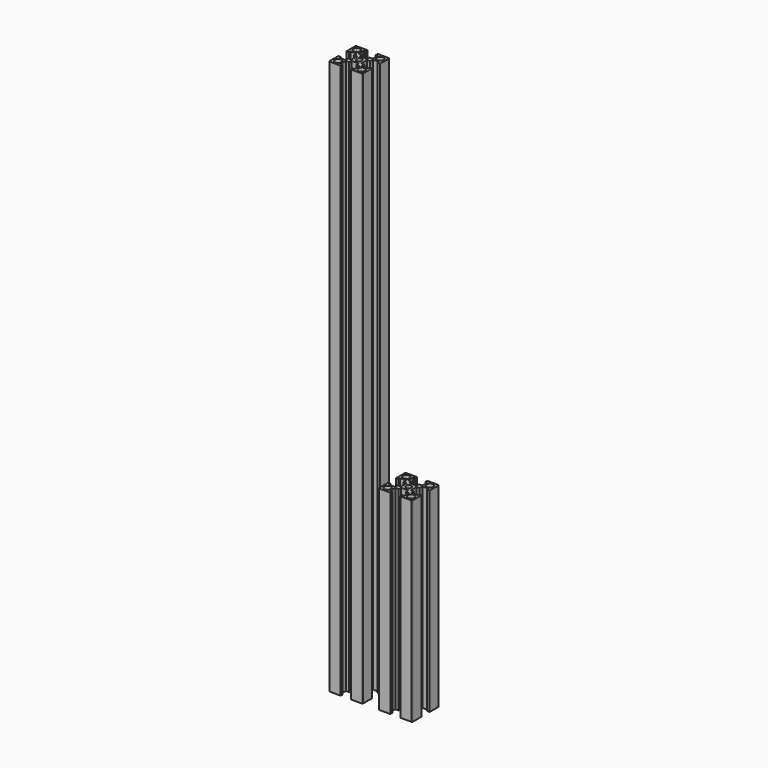
from build123d import *

# Parameters (mm, degrees)
F1_DEPTH = 330
F3_DEPTH = 116


with BuildPart() as f1:
    # F0 (on Top) → F1 (new body)
    with BuildSketch(Plane.XY):
        with BuildLine():
            Line((-2.980263, 9.980263), (-9.480263, 9.980263))
            ThreePointArc((-9.480263, 9.980263), (-9.671605, 9.942203), (-9.833817, 9.833817))
            Line((-9.833817, 9.833817), (-8.394477, 8.394477))
            ThreePointArc((-8.394477, 8.394477), (-6.214896, 8.828022), (-4.980263, 6.980263))
            ThreePointArc((-4.980263, 6.980263), (-5.132504, 6.214896), (-5.56605, 5.56605))
            Line((-5.56605, 5.56605), (-1.146989, 1.146989))
            ThreePointArc((-1.146989, 1.146989), (-0.611691, 1.504664), (0.019737, 1.630263))
            Line((0.019737, 1.630263), (0.019737, 2.980263))
            Line((0.019737, 2.980263), (-2.130263, 2.980263))
            Line((-2.130263, 2.980263), (-2.130263, 4.780263))
            Line((-2.130263, 4.780263), (-4.130263, 4.780263))
            Line((-4.130263, 4.780263), (-4.130263, 8.480263))
            Line((-4.130263, 8.480263), (-2.980263, 8.480263))
            Line((-2.980263, 8.480263), (-2.980263, 9.980263))
        make_face()
        with BuildLine():
            Line((0.019737, 2.980263), (0.019737, 1.630263))
            ThreePointArc((0.019737, 1.630263), (0.651165, 1.504664), (1.186463, 1.146989))
            Line((1.186463, 1.146989), (5.605523, 5.56605))
            ThreePointArc((5.605523, 5.56605), (5.605523, 8.394477), (8.43395, 8.394477))
            Line((8.43395, 8.394477), (9.87329, 9.833817))
            ThreePointArc((9.87329, 9.833817), (9.711079, 9.942203), (9.519737, 9.980263))
            Line((9.519737, 9.980263), (3.019737, 9.980263))
            Line((3.019737, 9.980263), (3.019737, 8.480263))
            Line((3.019737, 8.480263), (4.169737, 8.480263))
            Line((4.169737, 8.480263), (4.169737, 4.780263))
            Line((4.169737, 4.780263), (2.169737, 4.780263))
            Line((2.169737, 4.780263), (2.169737, 2.980263))
            Line((2.169737, 2.980263), (0.019737, 2.980263))
        make_face()
        with BuildLine():
            ThreePointArc((-1.146989, -1.186463), (-1.504664, -0.651165), (-1.630263, -0.019737))
            Line((-1.630263, -0.019737), (-2.980263, -0.019737))
            Line((-2.980263, -0.019737), (-2.980263, -2.169737))
            Line((-2.980263, -2.169737), (-4.780263, -2.169737))
            Line((-4.780263, -2.169737), (-4.780263, -4.169737))
            Line((-4.780263, -4.169737), (-8.480263, -4.169737))
            Line((-8.480263, -4.169737), (-8.480263, -3.019737))
            Line((-8.480263, -3.019737), (-9.980263, -3.019737))
            Line((-9.980263, -3.019737), (-9.980263, -9.519737))
            ThreePointArc((-9.980263, -9.519737), (-9.942203, -9.711079), (-9.833817, -9.87329))
            Line((-9.833817, -9.87329), (-8.394477, -8.43395))
            ThreePointArc((-8.394477, -8.43395), (-8.394477, -5.605523), (-5.56605, -5.605523))
            Line((-5.56605, -5.605523), (-1.146989, -1.186463))
        make_face()
        with BuildLine():
            ThreePointArc((1.669737, -0.019737), (1.544138, -0.651165), (1.186463, -1.186463))
            Line((1.186463, -1.186463), (5.605523, -5.605523))
            ThreePointArc((5.605523, -5.605523), (7.785104, -5.171978), (9.019737, -7.019737))
            ThreePointArc((9.019737, -7.019737), (8.867496, -7.785104), (8.43395, -8.43395))
            Line((8.43395, -8.43395), (9.87329, -9.87329))
            ThreePointArc((9.87329, -9.87329), (9.981677, -9.711079), (10.019737, -9.519737))
            Line((10.019737, -9.519737), (10.019737, -3.019737))
            Line((10.019737, -3.019737), (8.519737, -3.019737))
            Line((8.519737, -3.019737), (8.519737, -4.169737))
            Line((8.519737, -4.169737), (4.819737, -4.169737))
            Line((4.819737, -4.169737), (4.819737, -2.169737))
            Line((4.819737, -2.169737), (3.019737, -2.169737))
            Line((3.019737, -2.169737), (3.019737, -0.019737))
            Line((3.019737, -0.019737), (3.019737, 2.130263))
            Line((3.019737, 2.130263), (4.819737, 2.130263))
            Line((4.819737, 2.130263), (4.819737, 4.130263))
            Line((4.819737, 4.130263), (8.519737, 4.130263))
            Line((8.519737, 4.130263), (8.519737, 2.980263))
            Line((8.519737, 2.980263), (10.019737, 2.980263))
            Line((10.019737, 2.980263), (10.019737, 9.480263))
            ThreePointArc((10.019737, 9.480263), (9.981677, 9.671605), (9.87329, 9.833817))
            Line((9.87329, 9.833817), (8.43395, 8.394477))
            ThreePointArc((8.43395, 8.394477), (8.867496, 7.74563), (9.019737, 6.980263))
            ThreePointArc((9.019737, 6.980263), (7.785104, 5.132504), (5.605523, 5.56605))
            Line((5.605523, 5.56605), (1.186463, 1.146989))
            ThreePointArc((1.186463, 1.146989), (1.544138, 0.611691), (1.669737, -0.019737))
        make_face()
        with BuildLine():
            Line((-8.394477, 8.394477), (-9.833817, 9.833817))
            ThreePointArc((-9.833817, 9.833817), (-9.942203, 9.671605), (-9.980263, 9.480263))
            Line((-9.980263, 9.480263), (-9.980263, 2.980263))
            Line((-9.980263, 2.980263), (-8.480263, 2.980263))
            Line((-8.480263, 2.980263), (-8.480263, 4.130263))
            Line((-8.480263, 4.130263), (-4.780263, 4.130263))
            Line((-4.780263, 4.130263), (-4.780263, 2.130263))
            Line((-4.780263, 2.130263), (-2.980263, 2.130263))
            Line((-2.980263, 2.130263), (-2.980263, -0.019737))
            Line((-2.980263, -0.019737), (-1.630263, -0.019737))
            ThreePointArc((-1.630263, -0.019737), (-1.504664, 0.611691), (-1.146989, 1.146989))
            Line((-1.146989, 1.146989), (-5.56605, 5.56605))
            ThreePointArc((-5.56605, 5.56605), (-8.394477, 5.56605), (-8.394477, 8.394477))
        make_face()
        with BuildLine():
            ThreePointArc((1.186463, -1.186463), (0.019737, -1.669737), (-1.146989, -1.186463))
            Line((-1.146989, -1.186463), (-5.56605, -5.605523))
            ThreePointArc((-5.56605, -5.605523), (-5.132504, -6.25437), (-4.980263, -7.019737))
            ThreePointArc((-4.980263, -7.019737), (-6.214896, -8.867496), (-8.394477, -8.43395))
            Line((-8.394477, -8.43395), (-9.833817, -9.87329))
            ThreePointArc((-9.833817, -9.87329), (-9.671605, -9.981677), (-9.480263, -10.019737))
            Line((-9.480263, -10.019737), (-2.980263, -10.019737))
            Line((-2.980263, -10.019737), (-2.980263, -8.519737))
            Line((-2.980263, -8.519737), (-4.130263, -8.519737))
            Line((-4.130263, -8.519737), (-4.130263, -4.819737))
            Line((-4.130263, -4.819737), (-2.130263, -4.819737))
            Line((-2.130263, -4.819737), (-2.130263, -3.019737))
            Line((-2.130263, -3.019737), (0.019737, -3.019737))
            Line((0.019737, -3.019737), (2.169737, -3.019737))
            Line((2.169737, -3.019737), (2.169737, -4.819737))
            Line((2.169737, -4.819737), (4.169737, -4.819737))
            Line((4.169737, -4.819737), (4.169737, -8.519737))
            Line((4.169737, -8.519737), (3.019737, -8.519737))
            Line((3.019737, -8.519737), (3.019737, -10.019737))
            Line((3.019737, -10.019737), (9.519737, -10.019737))
            ThreePointArc((9.519737, -10.019737), (9.711079, -9.981677), (9.87329, -9.87329))
            Line((9.87329, -9.87329), (8.43395, -8.43395))
            ThreePointArc((8.43395, -8.43395), (5.605523, -8.43395), (5.605523, -5.605523))
            Line((5.605523, -5.605523), (1.186463, -1.186463))
        make_face()
    extrude(amount=F1_DEPTH)


with BuildPart() as f3:
    # F2 (on Top) → F3 (new body)
    with BuildSketch(Plane.XY):
        with BuildLine():
            ThreePointArc((30.686465, -1.186463), (29.519739, -1.669737), (28.353013, -1.186463))
            Line((28.353013, -1.186463), (23.933952, -5.605524))
            ThreePointArc((23.933952, -5.605524), (24.367498, -6.25437), (24.519739, -7.019737))
            ThreePointArc((24.519739, -7.019737), (23.285106, -8.867496), (21.105525, -8.433951))
            Line((21.105525, -8.433951), (19.666185, -9.873291))
            ThreePointArc((19.666185, -9.873291), (19.828397, -9.981677), (20.019739, -10.019737))
            Line((20.019739, -10.019737), (26.519739, -10.019737))
            Line((26.519739, -10.019737), (26.519739, -8.519737))
            Line((26.519739, -8.519737), (25.369739, -8.519737))
            Line((25.369739, -8.519737), (25.369739, -4.819737))
            Line((25.369739, -4.819737), (27.369739, -4.819737))
            Line((27.369739, -4.819737), (27.369739, -3.019737))
            Line((27.369739, -3.019737), (29.519739, -3.019737))
            Line((29.519739, -3.019737), (31.669739, -3.019737))
            Line((31.669739, -3.019737), (31.669739, -4.819737))
            Line((31.669739, -4.819737), (33.669739, -4.819737))
            Line((33.669739, -4.819737), (33.669739, -8.519737))
            Line((33.669739, -8.519737), (32.519739, -8.519737))
            Line((32.519739, -8.519737), (32.519739, -10.019737))
            Line((32.519739, -10.019737), (39.019739, -10.019737))
            ThreePointArc((39.019739, -10.019737), (39.211081, -9.981677), (39.373292, -9.873291))
            Line((39.373292, -9.873291), (37.933952, -8.433951))
            ThreePointArc((37.933952, -8.433951), (35.105525, -8.433951), (35.105525, -5.605524))
            Line((35.105525, -5.605524), (30.686465, -1.186463))
        make_face()
        with BuildLine():
            Line((21.105525, 8.394476), (19.666185, 9.833816))
            ThreePointArc((19.666185, 9.833816), (19.557799, 9.671604), (19.519739, 9.480263))
            Line((19.519739, 9.480263), (19.519739, 2.980263))
            Line((19.519739, 2.980263), (21.019739, 2.980263))
            Line((21.019739, 2.980263), (21.019739, 4.130263))
            Line((21.019739, 4.130263), (24.719739, 4.130263))
            Line((24.719739, 4.130263), (24.719739, 2.130263))
            Line((24.719739, 2.130263), (26.519739, 2.130263))
            Line((26.519739, 2.130263), (26.519739, -0.019737))
            Line((26.519739, -0.019737), (27.869739, -0.019737))
            ThreePointArc((27.869739, -0.019737), (27.995338, 0.61169), (28.353013, 1.146989))
            Line((28.353013, 1.146989), (23.933952, 5.566049))
            ThreePointArc((23.933952, 5.566049), (21.105525, 5.566049), (21.105525, 8.394476))
        make_face()
        with BuildLine():
            Line((26.519739, 9.980263), (20.019739, 9.980263))
            ThreePointArc((20.019739, 9.980263), (19.828397, 9.942202), (19.666185, 9.833816))
            Line((19.666185, 9.833816), (21.105525, 8.394476))
            ThreePointArc((21.105525, 8.394476), (23.285106, 8.828022), (24.519739, 6.980263))
            ThreePointArc((24.519739, 6.980263), (24.367498, 6.214896), (23.933952, 5.566049))
            Line((23.933952, 5.566049), (28.353013, 1.146989))
            ThreePointArc((28.353013, 1.146989), (28.888311, 1.504664), (29.519739, 1.630263))
            Line((29.519739, 1.630263), (29.519739, 2.980263))
            Line((29.519739, 2.980263), (27.369739, 2.980263))
            Line((27.369739, 2.980263), (27.369739, 4.780263))
            Line((27.369739, 4.780263), (25.369739, 4.780263))
            Line((25.369739, 4.780263), (25.369739, 8.480263))
            Line((25.369739, 8.480263), (26.519739, 8.480263))
            Line((26.519739, 8.480263), (26.519739, 9.980263))
        make_face()
        with BuildLine():
            ThreePointArc((31.169739, -0.019737), (31.04414, -0.651165), (30.686465, -1.186463))
            Line((30.686465, -1.186463), (35.105525, -5.605524))
            ThreePointArc((35.105525, -5.605524), (37.285106, -5.171978), (38.519739, -7.019737))
            ThreePointArc((38.519739, -7.019737), (38.367498, -7.785104), (37.933952, -8.433951))
            Line((37.933952, -8.433951), (39.373292, -9.873291))
            ThreePointArc((39.373292, -9.873291), (39.481679, -9.711079), (39.519739, -9.519737))
            Line((39.519739, -9.519737), (39.519739, -3.019737))
            Line((39.519739, -3.019737), (38.019739, -3.019737))
            Line((38.019739, -3.019737), (38.019739, -4.169737))
            Line((38.019739, -4.169737), (34.319739, -4.169737))
            Line((34.319739, -4.169737), (34.319739, -2.169737))
            Line((34.319739, -2.169737), (32.519739, -2.169737))
            Line((32.519739, -2.169737), (32.519739, -0.019737))
            Line((32.519739, -0.019737), (32.519739, 2.130263))
            Line((32.519739, 2.130263), (34.319739, 2.130263))
            Line((34.319739, 2.130263), (34.319739, 4.130263))
            Line((34.319739, 4.130263), (38.019739, 4.130263))
            Line((38.019739, 4.130263), (38.019739, 2.980263))
            Line((38.019739, 2.980263), (39.519739, 2.980263))
            Line((39.519739, 2.980263), (39.519739, 9.480263))
            ThreePointArc((39.519739, 9.480263), (39.481679, 9.671604), (39.373292, 9.833816))
            Line((39.373292, 9.833816), (37.933952, 8.394476))
            ThreePointArc((37.933952, 8.394476), (38.367498, 7.74563), (38.519739, 6.980263))
            ThreePointArc((38.519739, 6.980263), (37.285106, 5.132504), (35.105525, 5.566049))
            Line((35.105525, 5.566049), (30.686465, 1.146989))
            ThreePointArc((30.686465, 1.146989), (31.04414, 0.61169), (31.169739, -0.019737))
        make_face()
        with BuildLine():
            ThreePointArc((28.353013, -1.186463), (27.995338, -0.651165), (27.869739, -0.019737))
            Line((27.869739, -0.019737), (26.519739, -0.019737))
            Line((26.519739, -0.019737), (26.519739, -2.169737))
            Line((26.519739, -2.169737), (24.719739, -2.169737))
            Line((24.719739, -2.169737), (24.719739, -4.169737))
            Line((24.719739, -4.169737), (21.019739, -4.169737))
            Line((21.019739, -4.169737), (21.019739, -3.019737))
            Line((21.019739, -3.019737), (19.519739, -3.019737))
            Line((19.519739, -3.019737), (19.519739, -9.519737))
            ThreePointArc((19.519739, -9.519737), (19.557799, -9.711079), (19.666185, -9.873291))
            Line((19.666185, -9.873291), (21.105525, -8.433951))
            ThreePointArc((21.105525, -8.433951), (21.105525, -5.605524), (23.933952, -5.605524))
            Line((23.933952, -5.605524), (28.353013, -1.186463))
        make_face()
        with BuildLine():
            Line((29.519739, 2.980263), (29.519739, 1.630263))
            ThreePointArc((29.519739, 1.630263), (30.151167, 1.504664), (30.686465, 1.146989))
            Line((30.686465, 1.146989), (35.105525, 5.566049))
            ThreePointArc((35.105525, 5.566049), (35.105525, 8.394476), (37.933952, 8.394476))
            Line((37.933952, 8.394476), (39.373292, 9.833816))
            ThreePointArc((39.373292, 9.833816), (39.211081, 9.942202), (39.019739, 9.980263))
            Line((39.019739, 9.980263), (32.519739, 9.980263))
            Line((32.519739, 9.980263), (32.519739, 8.480263))
            Line((32.519739, 8.480263), (33.669739, 8.480263))
            Line((33.669739, 8.480263), (33.669739, 4.780263))
            Line((33.669739, 4.780263), (31.669739, 4.780263))
            Line((31.669739, 4.780263), (31.669739, 2.980263))
            Line((31.669739, 2.980263), (29.519739, 2.980263))
        make_face()
    extrude(amount=F3_DEPTH)


solid = Compound([f1.part, f3.part])
